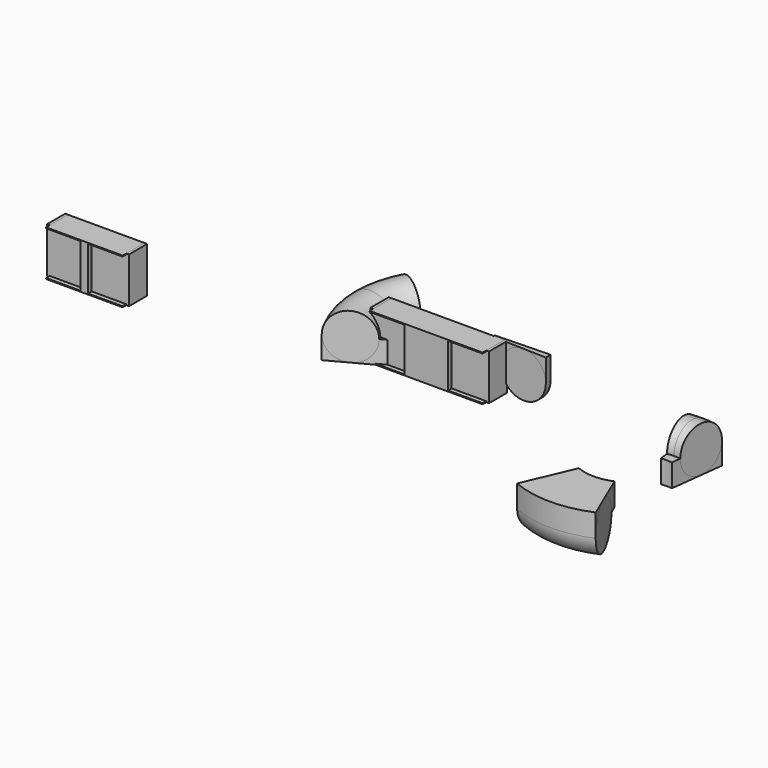
from build123d import *

# Parameters (mm, degrees)
F1_DEPTH  = 25
F2_DEPTH  = 25
F3_R      = 25
F0_R      = 8
F5_DEPTH  = 400
F7_R      = 25
F9_DEPTH  = 400
F11_DEPTH = 25
F12_DEPTH = 30
F13_DEPTH = 25
F14_DEPTH = 30


with BuildPart() as f1:
    # F0 (on Top) → F1 (new body)
    with BuildSketch(Plane.XY):
        with BuildLine():
            ThreePointArc((109.9511841689, -3.2767514169), (109.9877953652, -1.6385575084), (110, 0))
            ThreePointArc((110, 0), (109.9877953652, 1.6385575084), (109.9511841689, 3.2767514169))
            Line((109.9511841689, 3.2767514169), (49.9778109859, 1.4894324622))
            ThreePointArc((49.9778109859, 1.4894324622), (49.9944524387, 0.7447988675), (50, 0))
            ThreePointArc((50, 0), (49.9944524387, -0.7447988675), (49.9778109859, -1.4894324622))
            Line((49.9778109859, -1.4894324622), (109.9511841689, -3.2767514169))
        make_face()
    extrude(amount=F1_DEPTH)


with BuildPart() as f1b:
    # F0 (on Top) → F1, piece 2 (new body)
    with BuildSketch(Plane.XY):
        with BuildLine():
            ThreePointArc((236.9033873506, -201.2061360696), (280, -210), (323.0966126494, -201.2061360696))
            Line((323.0966126494, -201.2061360696), (299.5893693861, -146.0027891226))
            ThreePointArc((299.5893693861, -146.0027891226), (280, -150), (260.4106306139, -146.0027891226))
            Line((260.4106306139, -146.0027891226), (236.9033873506, -201.2061360696))
        make_face()
    extrude(amount=F1_DEPTH)


with BuildPart() as f2:
    # F0 (on Top) → F2 (new body)
    with BuildSketch(Plane.XY):
        with BuildLine():
            Line((-44.0267701704, 23.6990191434), (-96.8588943749, 52.1378421155))
            ThreePointArc((-96.8588943749, 52.1378421155), (-110, 0), (-96.8588943749, -52.1378421155))
            Line((-96.8588943749, -52.1378421155), (-44.0267701704, -23.6990191434))
            ThreePointArc((-44.0267701704, -23.6990191434), (-50, 0), (-44.0267701704, 23.6990191434))
        make_face()
    extrude(amount=-F2_DEPTH)


with BuildPart() as f2b:
    # F0 (on Top) → F2, piece 2 (new body)
    with BuildSketch(Plane.XY):
        with BuildLine():
            Line((286.0365030288, -50.3657312819), (293.2803066633, 9.1953911799))
            ThreePointArc((293.2803066633, 9.1953911799), (280, 10), (266.7196933367, 9.1953911799))
            Line((266.7196933367, 9.1953911799), (273.9634969712, -50.3657312819))
            ThreePointArc((273.9634969712, -50.3657312819), (280, -50), (286.0365030288, -50.3657312819))
        make_face()
    extrude(amount=-F2_DEPTH)


with BuildPart() as f4:
    # F3 (on Front) → F4 (revolve)
    with BuildSketch(Plane.XZ):
        with Locations((-85, 0)):
            Circle(F3_R)
    revolve(axis=Axis((0, 0, 43.1707985088), (0, 0, 1)))

    # F0 (on Top) → F5 (cut, symmetric)
    with BuildSketch(Plane.XY):
        with BuildLine():
            ThreePointArc((-96.8588943749, -52.1378421155), (25.2923616746, -107.0527740926), (109.9511841689, -3.2767514169))
            Line((109.9511841689, -3.2767514169), (49.9778109859, -1.4894324622))
            ThreePointArc((49.9778109859, -1.4894324622), (11.4965280339, -48.6603518603), (-44.0267701704, -23.6990191434))
            Line((-44.0267701704, -23.6990191434), (-96.8588943749, -52.1378421155))
        make_face()
        with BuildLine():
            Line((49.9778109859, 1.4894324622), (109.9511841689, 3.2767514169))
            ThreePointArc((109.9511841689, 3.2767514169), (25.2923616746, 107.0527740926), (-96.8588943749, 52.1378421155))
            Line((-96.8588943749, 52.1378421155), (-44.0267701704, 23.6990191434))
            ThreePointArc((-44.0267701704, 23.6990191434), (11.4965280339, 48.6603518603), (49.9778109859, 1.4894324622))
        make_face()
        with Locations((20.693750461, 87.5886333485)):
            Circle(F0_R, mode=Mode.SUBTRACT)
        with Locations((20.693750461, 87.5886333485)):
            Circle(F0_R)
    extrude(amount=F5_DEPTH, both=True, mode=Mode.SUBTRACT)


with BuildPart() as f8:
    # F7 (on plane+point) → F8 (revolve)
    with BuildSketch(Plane.YZ.offset(280)):
        with Locations((-15, 0)):
            Circle(F7_R)
    revolve(axis=Axis((280, -100, 35.3973743916), (0, 0, -1)))

    # F0 (on Top) → F9 (cut, symmetric)
    with BuildSketch(Plane.XY):
        with BuildLine():
            ThreePointArc((323.0966126494, -201.2061360696), (371.7622672765, -160.6604179369), (390, -100))
            ThreePointArc((390, -100), (362.3432867117, -27.0645276048), (293.2803066633, 9.1953911799))
            Line((293.2803066633, 9.1953911799), (286.0365030288, -50.3657312819))
            ThreePointArc((286.0365030288, -50.3657312819), (317.4287666871, -66.8475125476), (330, -100))
            ThreePointArc((330, -100), (321.7101214893, -127.572917244), (299.5893693861, -146.0027891226))
            Line((299.5893693861, -146.0027891226), (323.0966126494, -201.2061360696))
        make_face()
        with BuildLine():
            Line((273.9634969712, -50.3657312819), (266.7196933367, 9.1953911799))
            ThreePointArc((266.7196933367, 9.1953911799), (171.0881552583, -84.5659443124), (236.9033873506, -201.2061360696))
            Line((236.9033873506, -201.2061360696), (260.4106306139, -146.0027891226))
            ThreePointArc((260.4106306139, -146.0027891226), (230.4946160265, -92.984520142), (273.9634969712, -50.3657312819))
        make_face()
        with Locations((190.8903088477, -87.3721362556)):
            Circle(F0_R, mode=Mode.SUBTRACT)
        with Locations((190.8903088477, -87.3721362556)):
            Circle(F0_R)
    extrude(amount=F9_DEPTH, both=True, mode=Mode.SUBTRACT)


with BuildPart() as f11:
    # F10 (on Front) → F11 (new body)
    with BuildSketch(Plane.XZ):
        Polygon((-333.1011208, -58.7665383474), (-333.1011208, -59.7665383474), (-330.1011208, -59.7665383474), (-330.1011208, -9.7665383474), (-331.1011208, -9.7665383474), (-333.1011208, -9.7665383474), (-333.1011208, -10.7665383474), (-371.1011208, -10.7665383474), (-371.1011208, -34.7665383474), (-371.1011208, -58.7665383474), align=None)
    extrude(amount=F11_DEPTH)


with BuildPart() as f11b:
    # F10 (on Front) → F11, piece 2 (new body)
    with BuildSketch(Plane.XZ):
        Polygon((-417.1011208, -9.7665383474), (-420.1011208, -9.7665383474), (-420.1011208, -59.7665383474), (-417.1011208, -59.7665383474), (-417.1011208, -58.7665383474), (-379.1011208, -58.7665383474), (-379.1011208, -10.7665383474), (-417.1011208, -10.7665383474), align=None)
    extrude(amount=F11_DEPTH)


with BuildPart() as f12:
    # F10 (on Front) → F12 (new body)
    with BuildSketch(Plane.XZ):
        Polygon((-404.1011208, -9.7665383474), (-417.1011208, -9.7665383474), (-417.1011208, -10.7665383474), (-379.1011208, -10.7665383474), (-379.1011208, -58.7665383474), (-417.1011208, -58.7665383474), (-417.1011208, -59.7665383474), (-333.1011208, -59.7665383474), (-333.1011208, -58.7665383474), (-371.1011208, -58.7665383474), (-371.1011208, -34.7665383474), (-375.1011208, -34.7665383474), (-375.1011208, -9.7665383474), align=None)
        Polygon((-333.1011208, -9.7665383474), (-375.1011208, -9.7665383474), (-375.1011208, -34.7665383474), (-371.1011208, -34.7665383474), (-371.1011208, -10.7665383474), (-333.1011208, -10.7665383474), align=None)
    extrude(amount=F12_DEPTH)


with BuildPart() as f13:
    # F10 (on Front) → F13 (new body)
    with BuildSketch(Plane.XZ):
        Polygon((-62, 25), (-65, 25), (-65, -25), (-62, -25), (-62, -24), (-24, -24), (-24, 24), (-62, 24), align=None)
    extrude(amount=F13_DEPTH)


with BuildPart() as f13b:
    # F10 (on Front) → F13, piece 2 (new body)
    with BuildSketch(Plane.XZ):
        Polygon((62, -24), (62, -25), (65, -25), (65, 25), (62, 25), (62, 24), (24, 24), (24, 0), (24, -24), align=None)
    extrude(amount=F13_DEPTH)


with BuildPart() as f14:
    # F10 (on Front) → F14 (new body)
    with BuildSketch(Plane.XZ):
        Polygon((-49, 25), (-62, 25), (-62, 24), (-24, 24), (-24, -24), (-62, -24), (-62, -25), (62, -25), (62, -24), (24, -24), (24, 0), (0, 0), (0, 25), align=None)
        Polygon((23, 25), (0, 25), (0, 0), (24, 0), (24, 24), (62, 24), (62, 25), (58, 25), (51, 25), (44, 25), (37, 25), (30, 25), align=None)
    extrude(amount=F14_DEPTH)


solid = Compound([f1.part, f1b.part, f2.part, f2b.part, f4.part, f8.part, f11.part, f11b.part, f12.part, f13.part, f13b.part, f14.part])
